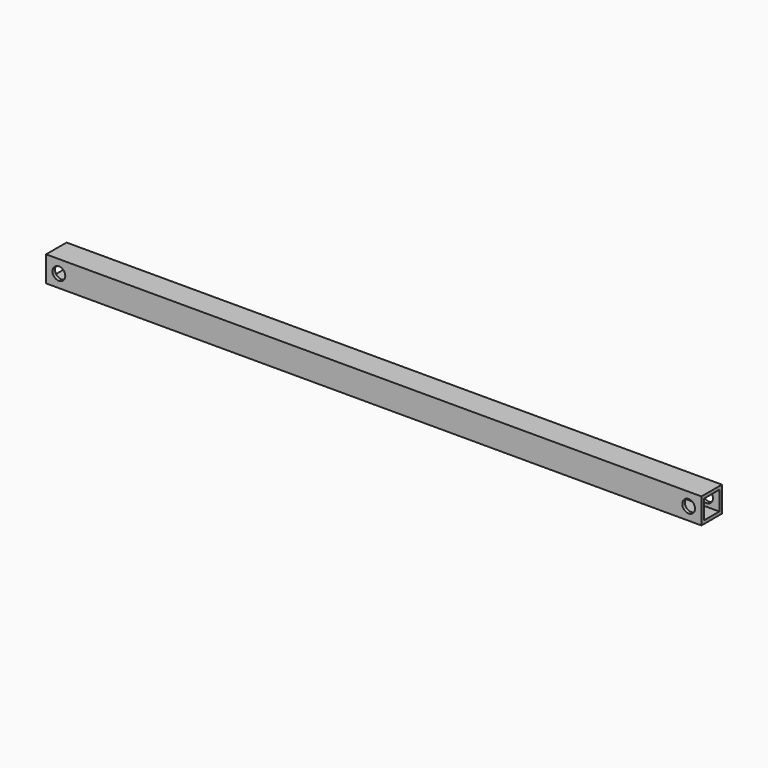
from build123d import *

# Parameters (mm, degrees)
F1_DEPTH = 25.4
F2_W     = 19.05
F2_H     = 19.05
F3_DEPTH = 650.4296966


with BuildPart() as f1:
    # F0 (on Front) → F1 (new body)
    with BuildSketch(Plane.XZ):
        with BuildLine():
            Line((318.0789541172, -9.1712903899), (-306.9497424828, -9.1712903899))
            Line((-306.9497424828, -9.1712903899), (-306.9497424828, -15.5212903899))
            ThreePointArc((-306.9497424828, -15.5212903899), (-302.4596144223, -17.3811623294), (-300.5997424828, -21.8712903899))
            ThreePointArc((-300.5997424828, -21.8712903899), (-302.4596144223, -26.3614184504), (-306.9497424828, -28.2212903899))
            Line((-306.9497424828, -28.2212903899), (-306.9497424828, -34.5712903899))
            Line((-306.9497424828, -34.5712903899), (318.0789541172, -34.5712903899))
            Line((318.0789541172, -34.5712903899), (318.0789541172, -28.2212903899))
            ThreePointArc((318.0789541172, -28.2212903899), (311.7289541172, -21.8712903899), (318.0789541172, -15.5212903899))
            Line((318.0789541172, -15.5212903899), (318.0789541172, -9.1712903899))
        make_face()
        with BuildLine():
            Line((-306.9497424828, -15.5212903899), (-306.9497424828, -9.1712903899))
            ThreePointArc((-306.9497424828, -9.1712903899), (-315.9299986039, -12.8910342688), (-319.6497424828, -21.8712903899))
            ThreePointArc((-319.6497424828, -21.8712903899), (-315.9299986039, -30.851546511), (-306.9497424828, -34.5712903899))
            Line((-306.9497424828, -34.5712903899), (-306.9497424828, -28.2212903899))
            ThreePointArc((-306.9497424828, -28.2212903899), (-313.2997424828, -21.8712903899), (-306.9497424828, -15.5212903899))
        make_face()
        with BuildLine():
            Line((330.7789541172, -9.1712903899), (318.0789541172, -9.1712903899))
            ThreePointArc((318.0789541172, -9.1712903899), (327.0592102383, -12.8910342688), (330.7789541172, -21.8712903899))
            Line((330.7789541172, -21.8712903899), (330.7789541172, -9.1712903899))
        make_face()
        with BuildLine():
            Line((330.7789541172, -34.5712903899), (330.7789541172, -21.8712903899))
            ThreePointArc((330.7789541172, -21.8712903899), (327.0592102383, -30.851546511), (318.0789541172, -34.5712903899))
            Line((318.0789541172, -34.5712903899), (330.7789541172, -34.5712903899))
        make_face()
        with BuildLine():
            ThreePointArc((330.7789541172, -21.8712903899), (327.0592102383, -12.8910342688), (318.0789541172, -9.1712903899))
            Line((318.0789541172, -9.1712903899), (318.0789541172, -15.5212903899))
            ThreePointArc((318.0789541172, -15.5212903899), (322.5690821777, -17.3811623294), (324.4289541172, -21.8712903899))
            ThreePointArc((324.4289541172, -21.8712903899), (322.5690821777, -26.3614184504), (318.0789541172, -28.2212903899))
            Line((318.0789541172, -28.2212903899), (318.0789541172, -34.5712903899))
            ThreePointArc((318.0789541172, -34.5712903899), (327.0592102383, -30.851546511), (330.7789541172, -21.8712903899))
        make_face()
        with BuildLine():
            ThreePointArc((-319.6497424828, -21.8712903899), (-315.9299986039, -12.8910342688), (-306.9497424828, -9.1712903899))
            Line((-306.9497424828, -9.1712903899), (-319.6497424828, -9.1712903899))
            Line((-319.6497424828, -9.1712903899), (-319.6497424828, -21.8712903899))
        make_face()
        with BuildLine():
            ThreePointArc((-306.9497424828, -34.5712903899), (-315.9299986039, -30.851546511), (-319.6497424828, -21.8712903899))
            Line((-319.6497424828, -21.8712903899), (-319.6497424828, -34.5712903899))
            Line((-319.6497424828, -34.5712903899), (-306.9497424828, -34.5712903899))
        make_face()
    extrude(amount=F1_DEPTH)

    # F2 (on face) → F3 (cut, through all)
    with BuildSketch(Plane(origin=(-319.6497424828, 0, 0), x_dir=(0, -1, 0), z_dir=(-1, 0, 0))):
        with Locations((12.7, -21.8712903899)):
            Rectangle(F2_W, F2_H)
    extrude(amount=-F3_DEPTH, mode=Mode.SUBTRACT)


solid = f1.part
